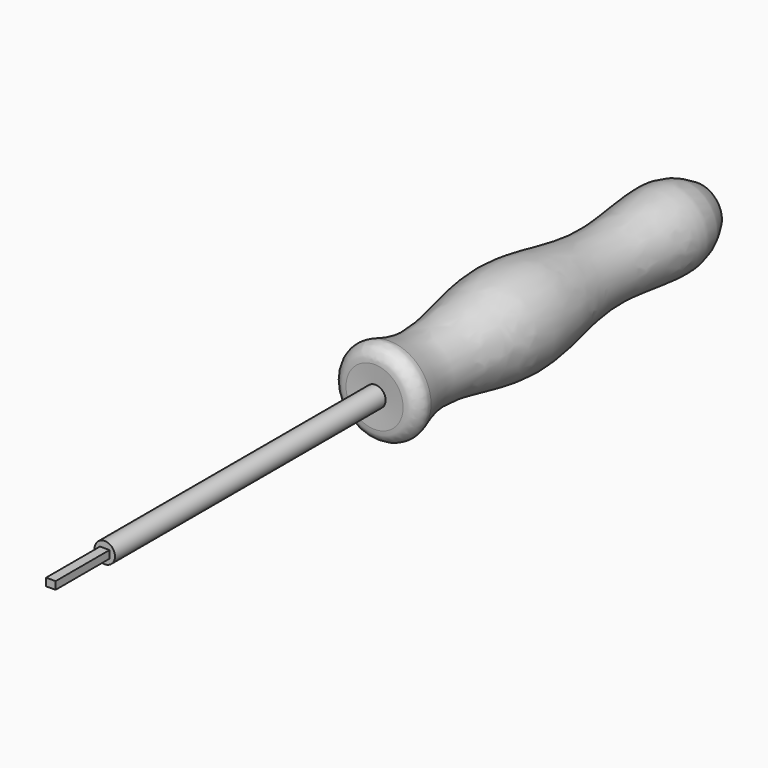
from build123d import *

# Parameters (mm, degrees)
F2_R     = 3.8646706833
F3_DEPTH = 203.2
F4_R     = 5.08
F5_W     = 3.5796575248
F5_H     = 2.878639847
F6_DEPTH = 25.4


with BuildPart() as f1:
    # F0 (on Right) → F1 (revolve)
    with BuildSketch(Plane.YZ):
        with BuildLine():
            add(Edge.make_bspline(
                [(-76.579041779, 18.8016630709), (-69.1488949828, 15.6394448175), (-52.4087731855, 8.5149666392), (-13.3308835609, 22.6696192437), (25.1879196064, 8.4129311715), (62.5127613012, 17.479987921), (72.2691334601, 11.5001326867), (76.0300904512, 9.1949747875)],
                knots=[0, 0, 0, 0, 0.1813555958, 0.4085941832, 0.64367127, 0.8626398208, 1, 1, 1, 1], degree=3))
            Line((-76.579041779, 18.8016630709), (-75.4811316729, 0))
            Line((-75.4811316729, 0), (75.2066522837, 0))
            Line((75.2066522837, 0), (76.0300904512, 9.1949747875))
        make_face()
    revolve(axis=Axis((0, -0.1372396946, 0), (0, 1, 0)))

    # F2 (on Front) → F3 (join)
    with BuildSketch(Plane.XZ):
        Circle(F2_R)
    extrude(amount=F3_DEPTH)

    # F4
    f4_edges = [f1.edges().sort_by_distance(p)[0] for p in [
        (0, -76.579042, -18.801663),
    ]]
    fillet(f4_edges, radius=F4_R)

    # F5 (on face) → F6 (join)
    with BuildSketch(Plane.XZ.offset(203.2)):
        Rectangle(F5_W, F5_H)
    extrude(amount=F6_DEPTH)


solid = f1.part
